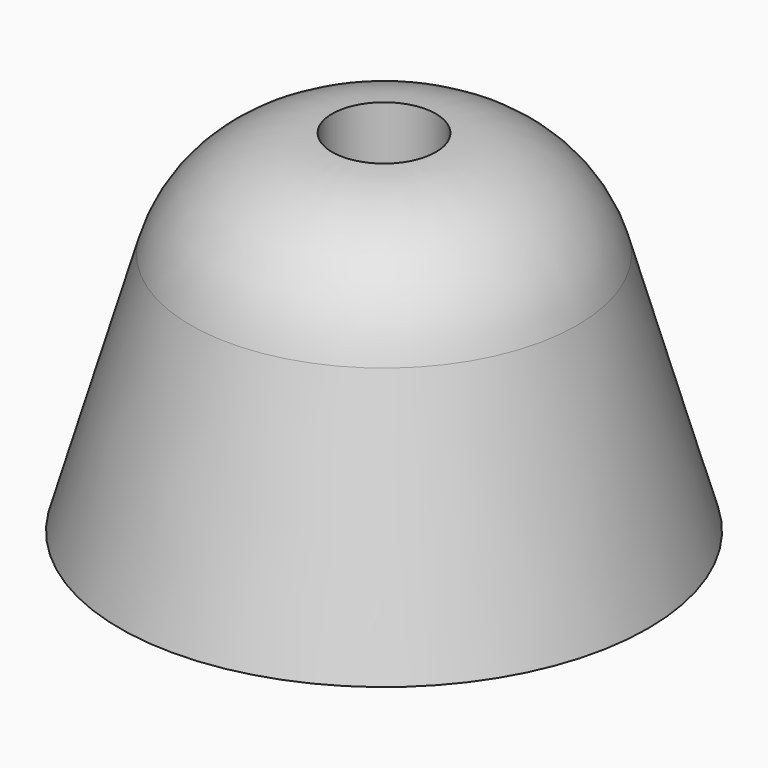
from build123d import *

# Parameters (mm, degrees)
F0_R       = 725.116012299
F1_DEPTH   = 962.66
F2_R       = 446.733222467
F1_FACE1_R = 725.116012299
F4_R       = 404.6577748379
F5_DEPTH   = 962.66


with BuildPart() as f1:
    # F0 (on Top) → F1 (new body)
    with BuildSketch(Plane.XY):
        Circle(F0_R)
    extrude(amount=F1_DEPTH)

    # F2 (on face) → F3 section 0
    with BuildSketch(Plane.XY.offset(962.66)):
        Circle(F2_R)
    # F1_face1 (on face) → F3 section 1
    with BuildSketch(Plane(origin=(0, 0, 0), x_dir=(1, 0, 0), z_dir=(0, 0, -1))):
        Circle(F1_FACE1_R)
    loft(mode=Mode.INTERSECT)

    # F4
    f4_edges = [f1.edges().sort_by_distance(p)[0] for p in [
        (-446.733222, 0, 962.66),
    ]]
    fillet(f4_edges, radius=F4_R)

    # F5 (cut): a face of the model
    f5_faces = [f1.faces().sort_by_distance(p)[0] for p in [
        (0, 0, 962.66),
    ]]
    extrude(f5_faces, amount=-F5_DEPTH, mode=Mode.SUBTRACT)


solid = f1.part
